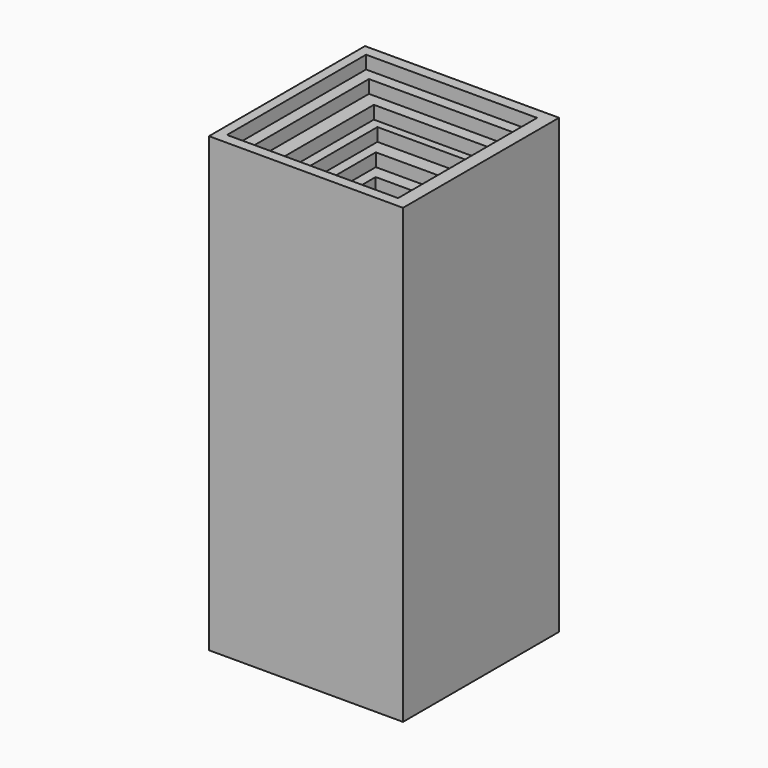
from build123d import *

# Parameters (mm, degrees)
F0_W      = 29.753645
F0_H      = 29.910467
F1_DEPTH  = 69.4
F2_W      = 26.227938
F2_H      = 26.650196
F3_DEPTH  = 2
F4_W      = 22.616781
F4_H      = 22.63493
F5_DEPTH  = 2
F6_W      = 18.798804
F6_H      = 18.714747
F7_DEPTH  = 2
F8_W      = 15.419276
F8_H      = 15.666918
F9_DEPTH  = 2
F10_W     = 12.241865
F10_H     = 11.595491
F11_DEPTH = 2
F12_W     = 8.867356
F12_H     = 8.313611
F13_DEPTH = 2
F14_W     = 5.944216
F14_H     = 5.405146
F15_DEPTH = 2
F16_W     = 3.43767
F16_H     = 2.966377
F17_DEPTH = 55.401
F18_W     = 25.107885
F18_H     = 25.31029
F19_DEPTH = 5
F20_W     = 19.709587
F20_H     = 20.623714
F21_DEPTH = 5
F22_W     = 15.688963
F22_H     = 16.865403
F23_DEPTH = 5
F24_W     = 12.248309
F24_H     = 12.584658
F25_DEPTH = 5
F26_W     = 8.523883
F26_H     = 8.044946
F27_DEPTH = 5
F28_W     = 6.262533
F28_H     = 5.897496
F29_DEPTH = 5


with BuildPart() as f1:
    # F0 (on Top) → F1 (new body)
    with BuildSketch(Plane.XY):
        with Locations((26.444191, 1.299118)):
            Rectangle(F0_W, F0_H)
    extrude(amount=F1_DEPTH)

    # F2 (on face) → F3 (cut)
    with BuildSketch(Plane.XY.offset(69.4)):
        with Locations((26.172734, 1.267092)):
            Rectangle(F2_W, F2_H)
    extrude(amount=-F3_DEPTH, mode=Mode.SUBTRACT)

    # F4 (on face) → F5 (cut)
    with BuildSketch(Plane.XY.offset(67.4)):
        with Locations((26.183258, 1.558795)):
            Rectangle(F4_W, F4_H)
    extrude(amount=-F5_DEPTH, mode=Mode.SUBTRACT)

    # F6 (on face) → F7 (cut)
    with BuildSketch(Plane.XY.offset(65.4)):
        with Locations((26.503739, 1.66645)):
            Rectangle(F6_W, F6_H)
    extrude(amount=-F7_DEPTH, mode=Mode.SUBTRACT)

    # F8 (on face) → F9 (cut)
    with BuildSketch(Plane.XY.offset(63.4)):
        with Locations((26.353671, 1.952434)):
            Rectangle(F8_W, F8_H)
    extrude(amount=-F9_DEPTH, mode=Mode.SUBTRACT)

    # F10 (on face) → F11 (cut)
    with BuildSketch(Plane.XY.offset(61.4)):
        with Locations((26.306717, 1.756216)):
            Rectangle(F10_W, F10_H)
    extrude(amount=-F11_DEPTH, mode=Mode.SUBTRACT)

    # F12 (on face) → F13 (cut)
    with BuildSketch(Plane.XY.offset(59.4)):
        with Locations((26.212682, 1.37607)):
            Rectangle(F12_W, F12_H)
    extrude(amount=-F13_DEPTH, mode=Mode.SUBTRACT)

    # F14 (on face) → F15 (cut)
    with BuildSketch(Plane.XY.offset(57.4)):
        with Locations((26.353785, 1.47873)):
            Rectangle(F14_W, F14_H)
    extrude(amount=-F15_DEPTH, mode=Mode.SUBTRACT)

    # F16 (on face) → F17 (cut, through all)
    with BuildSketch(Plane.XY.offset(55.4)):
        with Locations((26.232888, 1.483189)):
            Rectangle(F16_W, F16_H)
    extrude(amount=-F17_DEPTH, mode=Mode.SUBTRACT)

    # F18 (on face) → F19 (cut)
    with BuildSketch(Plane(origin=(0, 0, 0), x_dir=(1, 0, 0), z_dir=(0, 0, -1))):
        with Locations((26.205565, -1.541603)):
            Rectangle(F18_W, F18_H)
    extrude(amount=-F19_DEPTH, mode=Mode.SUBTRACT)

    # F20 (on face) → F21 (cut)
    with BuildSketch(Plane(origin=(0, 0, 5), x_dir=(1, 0, 0), z_dir=(0, 0, -1))):
        with Locations((26.284554, -1.530935)):
            Rectangle(F20_W, F20_H)
    extrude(amount=-F21_DEPTH, mode=Mode.SUBTRACT)

    # F22 (on face) → F23 (cut)
    with BuildSketch(Plane(origin=(0, 0, 10), x_dir=(1, 0, 0), z_dir=(0, 0, -1))):
        with Locations((26.510216, -1.292301)):
            Rectangle(F22_W, F22_H)
    extrude(amount=-F23_DEPTH, mode=Mode.SUBTRACT)

    # F24 (on face) → F25 (cut)
    with BuildSketch(Plane(origin=(0, 0, 15), x_dir=(1, 0, 0), z_dir=(0, 0, -1))):
        with Locations((26.16421, -1.464862)):
            Rectangle(F24_W, F24_H)
    extrude(amount=-F25_DEPTH, mode=Mode.SUBTRACT)

    # F26 (on face) → F27 (cut)
    with BuildSketch(Plane(origin=(0, 0, 20), x_dir=(1, 0, 0), z_dir=(0, 0, -1))):
        with Locations((26.223567, -1.529857)):
            Rectangle(F26_W, F26_H)
    extrude(amount=-F27_DEPTH, mode=Mode.SUBTRACT)

    # F28 (on face) → F29 (cut)
    with BuildSketch(Plane(origin=(0, 0, 25), x_dir=(1, 0, 0), z_dir=(0, 0, -1))):
        with Locations((26.28174, -1.536325)):
            Rectangle(F28_W, F28_H)
    extrude(amount=-F29_DEPTH, mode=Mode.SUBTRACT)


solid = f1.part
